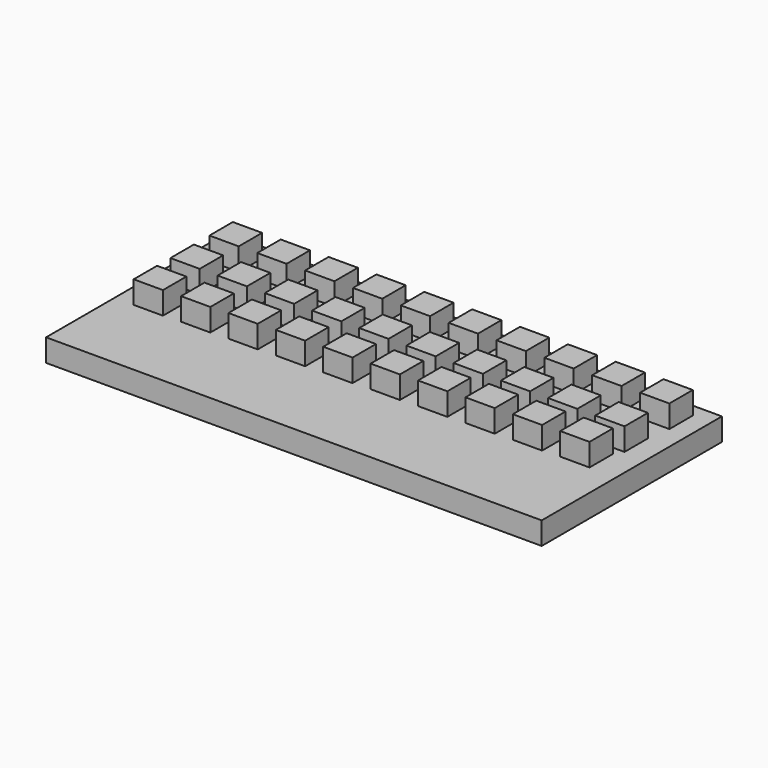
from build123d import *

# Parameters (mm, degrees)
F0_W     = 110
F0_H     = 50
F1_DEPTH = 5
F2_W     = 6.5
F2_H     = 6.5
F3_DEPTH = 5


with BuildPart() as f1:
    # F0 (on Top) → F1 (new body)
    with BuildSketch(Plane.XY):
        with Locations((2.586676, 5.525514)):
            Rectangle(F0_W, F0_H)
    extrude(amount=F1_DEPTH)

    # F2 (on face) → F3 (join)
    with BuildSketch(Plane.XY.offset(5)):
        with Locations((-44.919127, 23.786242)):
            Rectangle(F2_W, F2_H)
        with Locations((-34.35, 23.85)):
            Rectangle(F2_W, F2_H)
        with Locations((-23.780873, 23.913758)):
            Rectangle(F2_W, F2_H)
        with Locations((-13.211747, 23.977516)):
            Rectangle(F2_W, F2_H)
        with Locations((-2.64262, 24.041274)):
            Rectangle(F2_W, F2_H)
        with Locations((7.926506, 24.105032)):
            Rectangle(F2_W, F2_H)
        with Locations((18.495633, 24.16879)):
            Rectangle(F2_W, F2_H)
        with Locations((29.06476, 24.232548)):
            Rectangle(F2_W, F2_H)
        with Locations((39.633886, 24.296306)):
            Rectangle(F2_W, F2_H)
        with Locations((50.203013, 24.360064)):
            Rectangle(F2_W, F2_H)
        with Locations((-44.918754, 12.968144)):
            Rectangle(F2_W, F2_H)
        with Locations((-34.428743, 12.95)):
            Rectangle(F2_W, F2_H)
        with Locations((-23.938732, 12.931856)):
            Rectangle(F2_W, F2_H)
        with Locations((-13.44872, 12.913711)):
            Rectangle(F2_W, F2_H)
        with Locations((-2.958709, 12.895567)):
            Rectangle(F2_W, F2_H)
        with Locations((7.531302, 12.877423)):
            Rectangle(F2_W, F2_H)
        with Locations((18.021314, 12.859278)):
            Rectangle(F2_W, F2_H)
        with Locations((28.511325, 12.841134)):
            Rectangle(F2_W, F2_H)
        with Locations((39.001336, 12.82299)):
            Rectangle(F2_W, F2_H)
        with Locations((49.491347, 12.804845)):
            Rectangle(F2_W, F2_H)
        with Locations((-44.918754, 2.76096)):
            Rectangle(F2_W, F2_H)
        with Locations((-34.55, 2.95)):
            Rectangle(F2_W, F2_H)
        with Locations((-24.181246, 3.13904)):
            Rectangle(F2_W, F2_H)
        with Locations((-13.812492, 3.32808)):
            Rectangle(F2_W, F2_H)
        with Locations((-3.443738, 3.51712)):
            Rectangle(F2_W, F2_H)
        with Locations((6.925016, 3.70616)):
            Rectangle(F2_W, F2_H)
        with Locations((17.29377, 3.8952)):
            Rectangle(F2_W, F2_H)
        with Locations((27.662524, 4.08424)):
            Rectangle(F2_W, F2_H)
        with Locations((38.031278, 4.27328)):
            Rectangle(F2_W, F2_H)
        with Locations((48.400033, 4.462319)):
            Rectangle(F2_W, F2_H)
    extrude(amount=F3_DEPTH)


solid = f1.part
